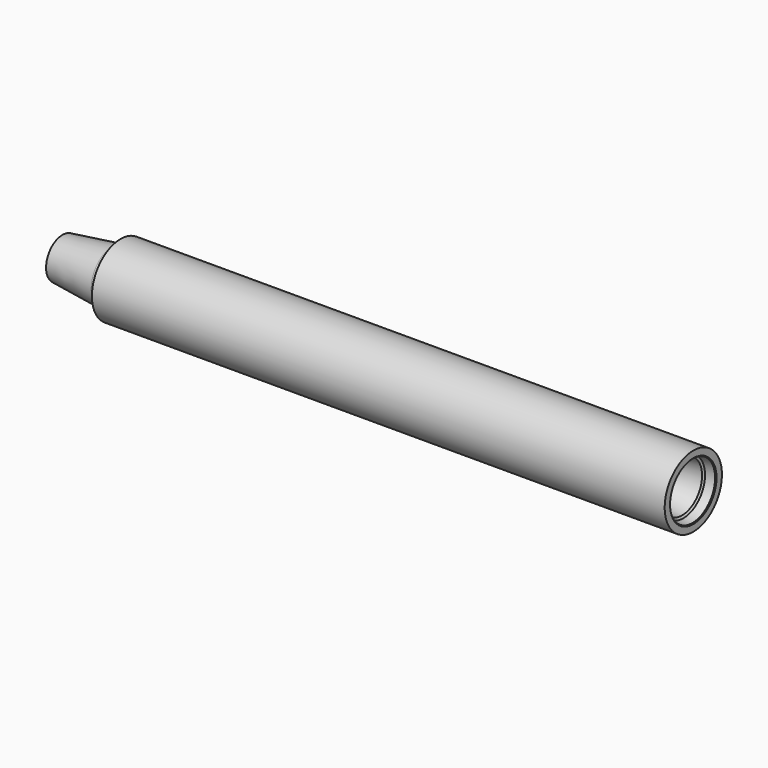
from build123d import *


with BuildPart() as f1:
    # F0 (on Front) → F1 (revolve)
    with BuildSketch(Plane.XZ):
        Polygon((1008.38, 45.109689), (1009.65, 46.379689), (1009.65, 57.15), (920.75, 57.15), (101.6, 57.15), (95.25, 57.15), (95.25, 42.7355), (82.55, 42.7355), (2.548534, 32.735317), (0, 28.321127), (0, 19.05), (742.95, 19.05), (742.95, 30.95625), (920.75, 30.95625), (991.78397, 39.83548), (993.775, 43.284064), align=None)
    revolve(axis=Axis((504.825, 0, 0), (-1, 0, 0)))


solid = f1.part
